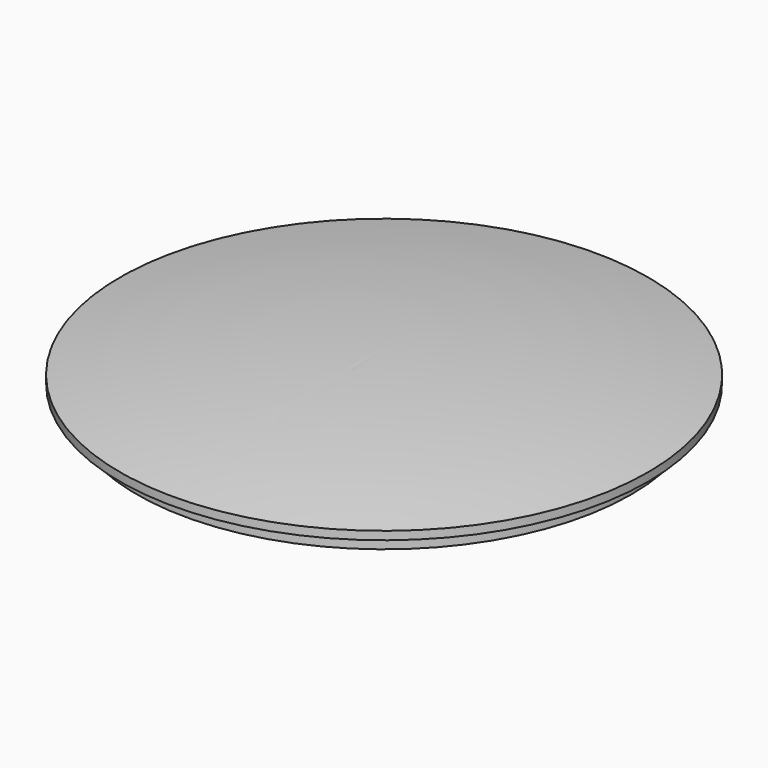
from build123d import *

# Parameters (mm, degrees)
F0_R     = 59.5
F1_DEPTH = 4
F2_START = 4
F0_R_2   = 63.5
F2_DEPTH = 2


with BuildPart() as f1:
    # F0 (on Top) → F1 (new body)
    with BuildSketch(Plane.XY):
        Circle(F0_R)
    extrude(amount=F1_DEPTH)


with BuildPart() as f2:
    # F0 (on Top) → F2 (new body)
    with BuildSketch(Plane.XY.offset(F2_START)):
        Circle(F0_R_2)
        Circle(F0_R, mode=Mode.SUBTRACT)
        Circle(F0_R)
    extrude(amount=F2_DEPTH)


with BuildPart() as f4:
    # F3 (on Right) → F4 (revolve)
    with BuildSketch(Plane.YZ):
        with BuildLine():
            Line((0, 6.0036913461), (0, 11.4844598427))
            ThreePointArc((0, 11.4844598427), (-31.8684052127, 10.1122485047), (-63.5007694364, 6.0047251172))
            Line((-63.5007694364, 6.0047251172), (0, 6.0036913461))
        make_face()
    revolve(axis=Axis((0, 0, 16.208153218), (0, 0, 1)))


solid = Compound([f1.part, f2.part, f4.part])
